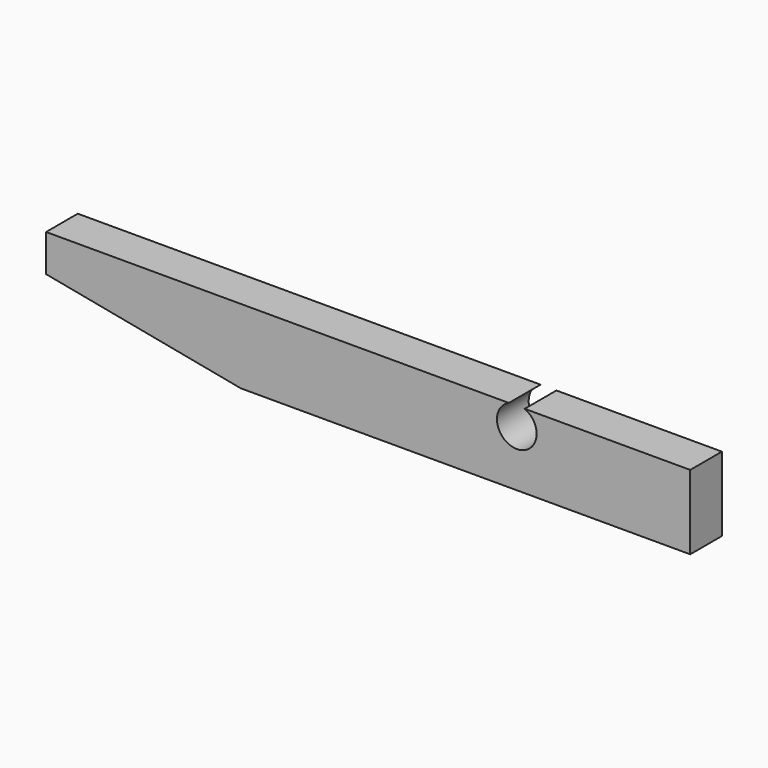
from build123d import *

# Parameters (mm, degrees)
F1_DEPTH = 5.08


with BuildPart() as f1:
    # F0 (on Front) → F1 (new body)
    with BuildSketch(Plane.XZ):
        with BuildLine():
            Line((8.074671, -8.104322), (-51.236376, -8.104322))
            Line((-51.236376, -8.104322), (-51.236376, -12.866822))
            Line((-51.236376, -12.866822), (-26.286855, -17.629322))
            Line((-26.286855, -17.629322), (31.313624, -17.629322))
            Line((31.313624, -17.629322), (31.313624, -8.104322))
            Line((31.313624, -8.104322), (10.102578, -8.104322))
            ThreePointArc((10.102578, -8.104322), (9.088624, -12.975139), (8.074671, -8.104322))
        make_face()
    extrude(amount=F1_DEPTH)


solid = f1.part
